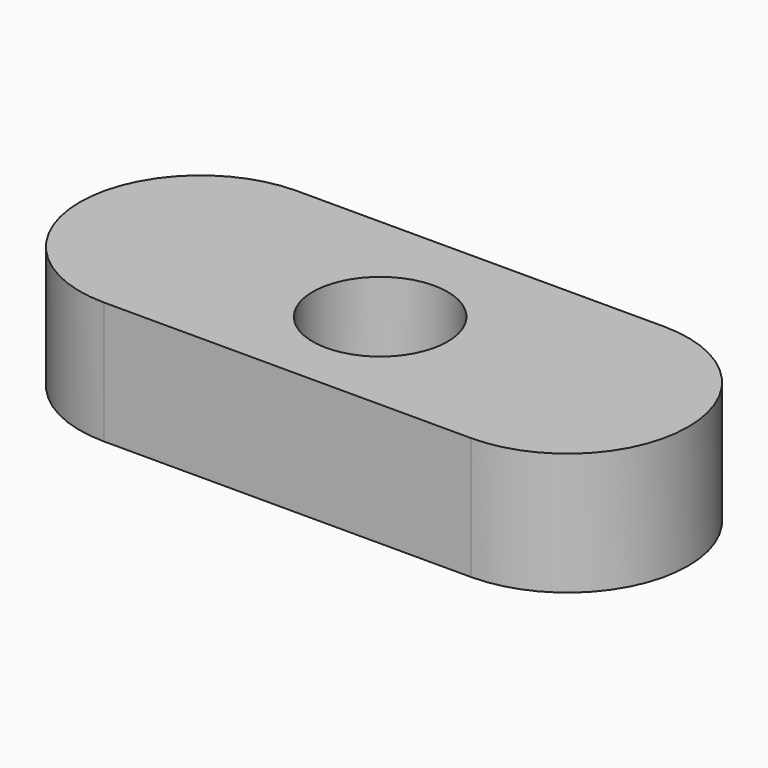
from build123d import *

# Parameters (mm, degrees)
F0_R     = 3.500564
F1_DEPTH = 6.35


with BuildPart() as f1:
    # F0 (on Top) → F1 (new body)
    with BuildSketch(Plane.XY):
        with BuildLine():
            Line((-9.096524, 12.534158), (-28.146524, 12.534158))
            ThreePointArc((-28.146524, 12.534158), (-34.413602, 6.267079), (-28.146524, 0))
            Line((-28.146524, 0), (-9.096524, 0))
            ThreePointArc((-9.096524, 0), (-2.829445, 6.267079), (-9.096524, 12.534158))
        make_face()
        with Locations((-18.621524, 6.01799)):
            Circle(F0_R, mode=Mode.SUBTRACT)
        with BuildLine():
            Line((-9.096524, 12.534158), (-28.146524, 12.534158))
            ThreePointArc((-28.146524, 12.534158), (-34.413602, 6.267079), (-28.146524, 0))
            Line((-28.146524, 0), (-9.096524, 0))
            ThreePointArc((-9.096524, 0), (-2.829445, 6.267079), (-9.096524, 12.534158))
        make_face()
        with Locations((-18.621524, 6.01799)):
            Circle(F0_R, mode=Mode.SUBTRACT)
    extrude(amount=F1_DEPTH)


solid = f1.part
